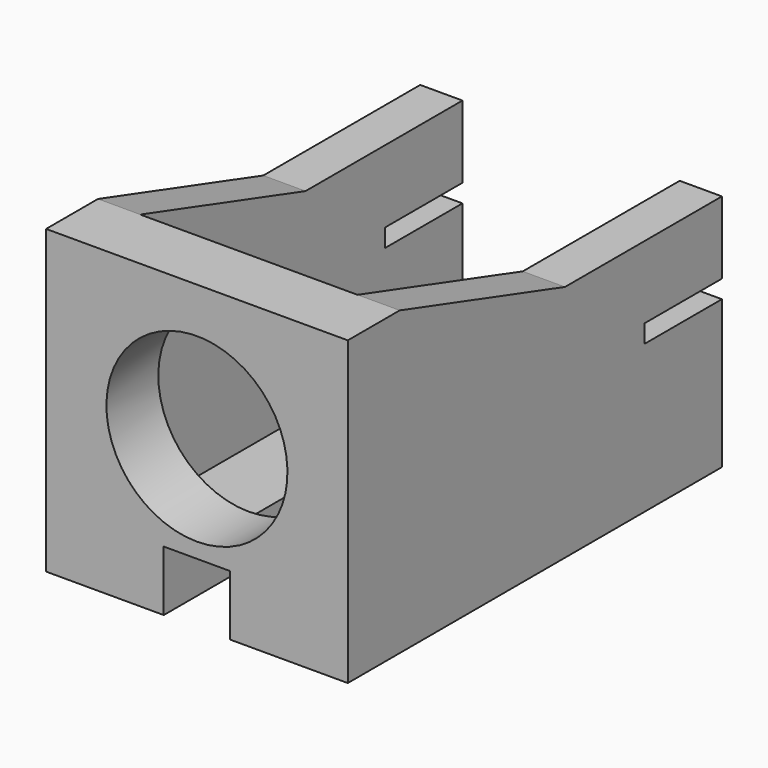
from build123d import *

# Parameters (mm, degrees)
SKETCH_W        = 15.5
SKETCH_H        = 10
PAD_DEPTH       = 10
POCKET_DEPTH    = 9
POCKET001_DEPTH = 10
POCKET002_DEPTH = 8.6
SKETCH002_R     = 3
HOLE_DEPTH      = 25
SKETCH012_W     = 3.2
SKETCH012_H     = 0.6
POCKET004_DEPTH = 10


with BuildPart() as part:
    # Sketch → Pad (new body)
    with BuildSketch(Plane.YZ):
        with Locations((7.75, 5)):
            Rectangle(SKETCH_W, SKETCH_H)
    extrude(amount=PAD_DEPTH)

    # Sketch001 (on Face1 of Pad) → Pocket (cut)
    with BuildSketch(Plane(origin=(0, 0, 0), x_dir=(0, 0, -1), z_dir=(0, -1, 0))):
        Polygon((-2, 6.1), (-2, 3.9), (0, 3.9), (0, 5), (0, 6.1), align=None)
    extrude(amount=-POCKET_DEPTH, mode=Mode.SUBTRACT)

    # Sketch003 → Pocket001 (cut)
    with BuildSketch(Plane.YZ.offset(10)):
        Polygon((2.15, 10), (9, 7.9), (15.5, 7.9), (15.5, 10), align=None)
    extrude(amount=-POCKET001_DEPTH, mode=Mode.SUBTRACT)

    # Sketch004 (on Face4 of Pad) → Pocket002 (cut)
    with BuildSketch(Plane(origin=(0, 0, 10), x_dir=(0, -1, 0), z_dir=(0, 0, 1))):
        Polygon((-15.5, 8.6), (-15.5, 5), (-15.5, 1.4), (-2.15, 1.4), (-2.15, 8.6), align=None)
    extrude(amount=-POCKET002_DEPTH, mode=Mode.SUBTRACT)

    # Sketch002 (on Face1 of Pocket) → Hole (cut)
    with BuildSketch(Plane(origin=(0, 0, 0), x_dir=(0, 0, -1), z_dir=(0, -1, 0))):
        with Locations((-5.5, 5)):
            Circle(SKETCH002_R)
    extrude(amount=-HOLE_DEPTH, mode=Mode.SUBTRACT)

    # Sketch012 (on Face2 of Hole) → Pocket004 (cut)
    with BuildSketch(Plane(origin=(0, 0, 0), x_dir=(0, 1, 0), z_dir=(-1, 0, 0))):
        with Locations((13.9, -5.2)):
            Rectangle(SKETCH012_W, SKETCH012_H)
    extrude(amount=-POCKET004_DEPTH, mode=Mode.SUBTRACT)


solid = part.part
